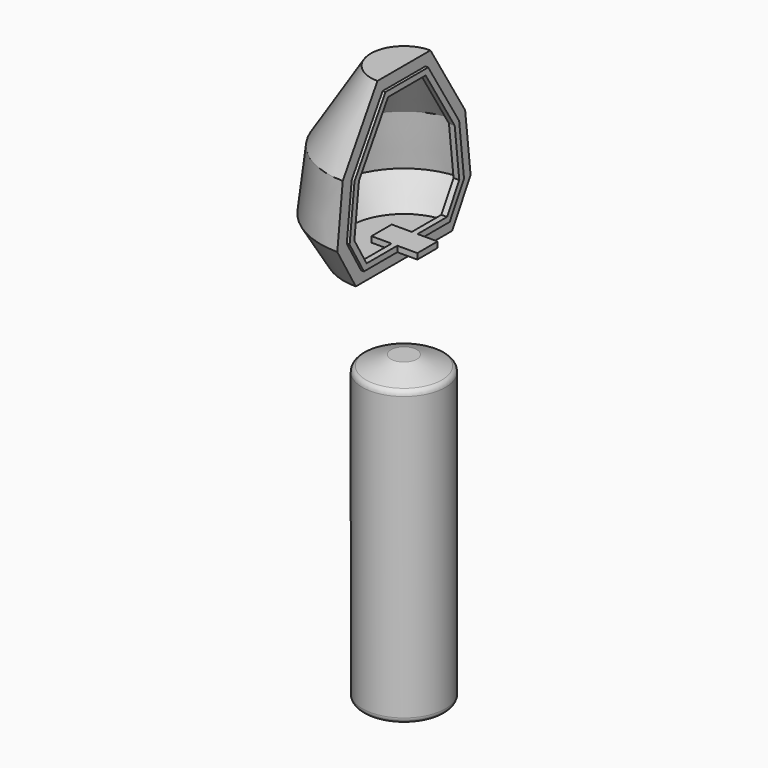
from build123d import *

# Parameters (mm, degrees)
F0_W     = 7.25
F0_H     = 53
F2_SIZE2 = 5
F2_SIZE  = 2
F3_R     = 1
F5_ANGLE = 180
F6_DEPTH = 0.5
F4_W     = 2.0742525812
F4_H     = 1
F4_W_2   = 2.330982592
F7_DEPTH = 4


with BuildPart() as f1:
    # F0 (on Front) → F1 (revolve)
    with BuildSketch(Plane.XZ):
        with Locations((-3.625, 3.0750076622)):
            Rectangle(F0_W, F0_H)
    revolve(axis=Axis((0, 0, 3.0750076622), (0, 0, 1)))

    # F2
    f2_edges = [f1.edges().sort_by_distance(p)[0] for p in [
        (7.25, 0, 29.575008),
    ]]
    chamfer(f2_edges, length=F2_SIZE, length2=F2_SIZE2)

    # F3
    f3_edges = [f1.edges().sort_by_distance(p)[0] for p in [
        (7.25, 0, 24.575008),
        (7.25, 0, -23.424992),
    ]]
    fillet(f3_edges, radius=F3_R)


with BuildPart() as f5:
    # F4 (on Right) → F5 (revolve)
    with BuildSketch(Plane.YZ):
        Polygon((-4.6534229718, 71.9056739211), (0, 71.9056739211), (0, 73.9056739211), (-5.769913348, 73.9056739211), (-13.3347867152, 61.635815171), (-14.5233821943, 51.2127484873), (-10.4894473554, 44.2826541364), (0, 44.2826541364), (0, 46.2826541364), (-2.0742525812, 46.2826541364), (-9.3394714439, 46.2826541364), (-12.4610805258, 51.6454193589), (-11.3982127292, 60.9659511254), align=None)
    revolve(axis=Axis((0, 0, 72.9056739211), (0, 0, -1)), revolution_arc=F5_ANGLE)

    # F4 (on Right) → F6 (join, symmetric)
    with BuildSketch(Plane.YZ):
        Polygon((0, 70.9056739211), (0, 71.9056739211), (-4.6534229718, 71.9056739211), (-11.3982127292, 60.9659511254), (-12.4610805258, 51.6454193589), (-9.3394714439, 46.2826541364), (-2.0742525812, 46.2826541364), (-2.0742525812, 47.2826541364), (-8.7644834882, 47.2826541364), (-11.4299296915, 51.8617547947), (-10.4299257361, 60.6310191026), (-4.0951777837, 70.9056739211), align=None)
        Polygon((4.6534229718, 71.9056739211), (0, 71.9056739211), (0, 70.9056739211), (4.0951777837, 70.9056739211), (10.4299257361, 60.6310191026), (11.4299296915, 51.8617547947), (8.7644834882, 47.2826541364), (2.330982592, 47.2826541364), (2.330982592, 46.2826541364), (9.3394714439, 46.2826541364), (12.4610805258, 51.6454193589), (11.3982127292, 60.9659511254), align=None)
    extrude(amount=F6_DEPTH, both=True)

    # F4 (on Right) → F7 (join, symmetric)
    with BuildSketch(Plane.YZ):
        with Locations((-1.0371262906, 46.7826541364)):
            Rectangle(F4_W, F4_H)
        with Locations((1.165491296, 46.7826541364)):
            Rectangle(F4_W_2, F4_H)
    extrude(amount=F7_DEPTH, both=True)


solid = Compound([f1.part, f5.part])
